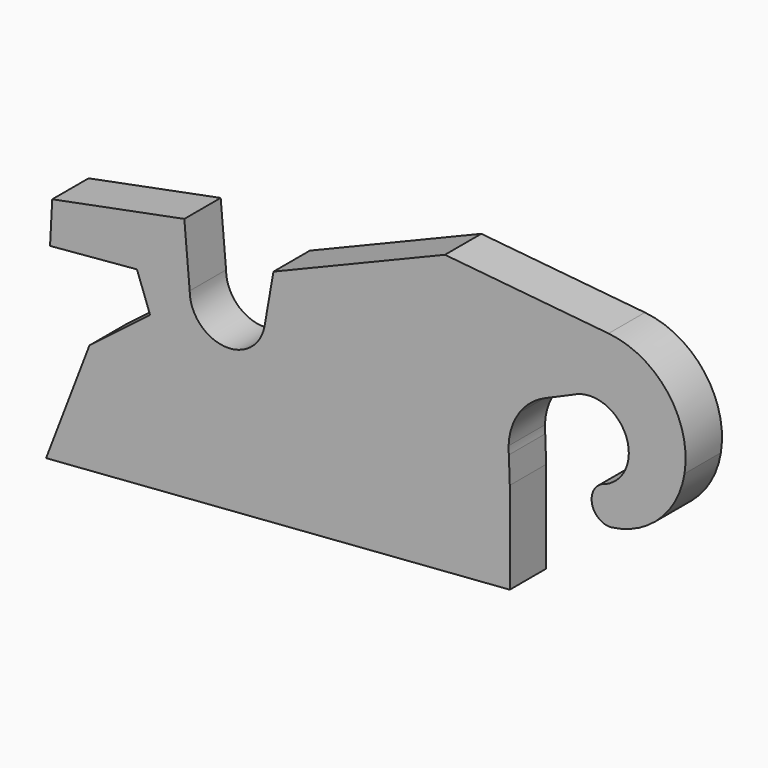
from build123d import *

# Parameters (mm, degrees)
F1_DEPTH = 25


with BuildPart() as f1:
    # F0 (on Front) → F1 (new body)
    with BuildSketch(Plane.XZ):
        with BuildLine():
            ThreePointArc((210.7900996534, -39.1419847991), (237.6177301096, -26.3390851309), (251.3977370138, 0))
            Line((251.3977370138, 0), (220.75, 0))
            ThreePointArc((220.75, 0), (216.6313755102, -12.4080557961), (205.9104965167, -19.8904130406))
            ThreePointArc((205.9104965167, -19.8904130406), (203.7307412614, -21.3576975777), (202, -23.3347639831))
            Line((202, -23.3347639831), (202, -34.6340773268))
            ThreePointArc((202, -34.6340773268), (205.8105086824, -38.0278448107), (210.7900996534, -39.1419847991))
        make_face()
        with BuildLine():
            ThreePointArc((202, -23.3347639831), (200.2850186662, -28.984420655), (202, -34.6340773268))
            Line((202, -34.6340773268), (202, -23.3347639831))
        make_face()
        with BuildLine():
            Line((25.3114801989, 24.2953589364), (21.0646269025, 0))
            Line((21.0646269025, 0), (154, 0))
            Line((154, 0), (160.5472754862, 0))
            ThreePointArc((160.5472754862, 0), (166.8205732831, 6.8086025808), (174.7224661833, 11.6326489056))
            Line((174.7224661833, 11.6326489056), (190.8394987814, 18.6184778493))
            ThreePointArc((190.8394987814, 18.6184778493), (191.7478739862, 19.038511398), (192.6754452712, 19.4142575966))
            ThreePointArc((192.6754452712, 19.4142575966), (211.8020758636, 17.0667368091), (220.75, 0))
            Line((220.75, 0), (251.3977370138, 0))
            ThreePointArc((251.3977370138, 0), (242.2377138986, 36.1766919921), (209.6012580564, 54.2742282063))
            Line((209.6012580564, 54.2742282063), (119.6315883608, 63.1246931609))
            Line((119.6315883608, 63.1246931609), (25.3114801989, 24.2953589364))
        make_face()
        with BuildLine():
            ThreePointArc((20.4400724491, -3.5729453221), (-1.7931810673, -20.6723729083), (-20.75, 0))
            Line((-20.75, 0), (-49.3885839036, 0))
            Line((-49.3885839036, 0), (-42.5576653039, -18.7677946067))
            Line((-42.5576653039, -18.7677946067), (-75.8785055961, -44.3357746251))
            Line((-75.8785055961, -44.3357746251), (-99.7378202288, -106.6764599215))
            Line((-99.7378202288, -106.6764599215), (155.289266195, -87.449753308))
            Line((155.289266195, -87.449753308), (155.289266195, -36.919753308))
            Line((155.289266195, -36.919753308), (154.7796214415, -22.3254370622))
            ThreePointArc((154.7796214415, -22.3254370622), (154.6339324313, -20.1651687544), (154.6285738509, -18))
            ThreePointArc((154.6285738509, -18), (156.2841628525, -8.5713012671), (160.5472754862, 0))
            Line((160.5472754862, 0), (154, 0))
            Line((154, 0), (21.0646269025, 0))
            Line((21.0646269025, 0), (20.4400724491, -3.5729453221))
        make_face()
        Polygon((-49.3885839036, 0), (-20.75, 0), (-23.7132952534, 33.8706197351), (-96.3537068285, 19.7507540773), (-97.3887999889, 0), (-60.7786662376, 0), (-49.7400883137, 0.9657504298), align=None)
        Polygon((-97.5574338221, -3.2177252221), (-60.7786662376, 0), (-97.3887999889, 0), align=None)
    extrude(amount=F1_DEPTH)


solid = f1.part
